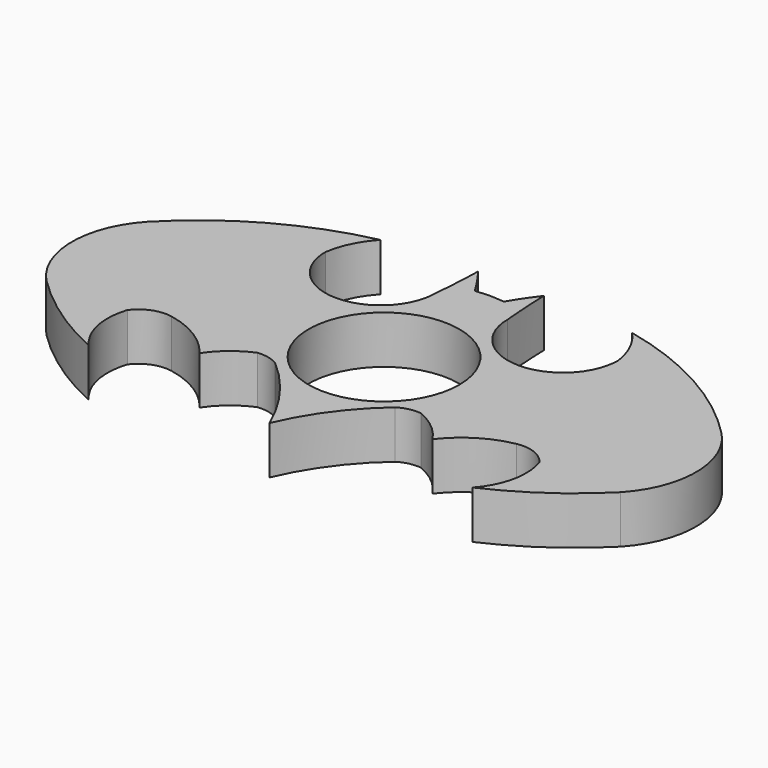
from build123d import *

# Parameters (mm, degrees)
F0_R     = 11
F1_DEPTH = 3.5


with BuildPart() as f1:
    # F0 (on Top) → F1 (new body, symmetric)
    with BuildSketch(Plane.XY):
        with BuildLine():
            ThreePointArc((4.8068902284, 23.1867481814), (3.40065434, 21.2355802686), (2.1143376362, 19.2033536732))
            ThreePointArc((2.1143376362, 19.2033536732), (1.0584202785, 19.2909091426), (0, 19.3396322429))
            ThreePointArc((0, 19.3396322429), (-1.0584202785, 19.2909091426), (-2.1143376362, 19.2033536732))
            ThreePointArc((-2.1143376362, 19.2033536732), (-3.40065434, 21.2355802686), (-4.8068902284, 23.1867481814))
            ThreePointArc((-4.8068902284, 23.1867481814), (-4.9615717482, 19.612078626), (-5.2325893193, 16.0443428904))
            ThreePointArc((-5.2325893193, 16.0443428904), (-13.3206225283, 7.9563096814), (-21.4086557373, 16.0443428904))
            ThreePointArc((-21.4086557373, 16.0443428904), (-20.3787118799, 19.4130691175), (-18.3847115054, 22.3170428173))
            ThreePointArc((-18.3847115054, 22.3170428173), (-31.1223848305, 17.5096597623), (-41.9289059937, 9.2284549028))
            ThreePointArc((-41.9289059937, 9.2284549028), (-45.5657635204, 0), (-41.9289059937, -9.2284549028))
            ThreePointArc((-41.9289059937, -9.2284549028), (-35.4148236465, -14.666894454), (-28.0357005491, -18.857173191))
            ThreePointArc((-28.0357005491, -18.857173191), (-30.3567973633, -14.31904571), (-30.0960739695, -9.2284549028))
            ThreePointArc((-30.0960739695, -9.2284549028), (-27.9226796708, -7.5682851491), (-25.1994561404, -7.3155798018))
            ThreePointArc((-25.1994561404, -7.3155798018), (-20.6333159795, -9.1010108427), (-17.0062072575, -12.399720028))
            ThreePointArc((-17.0062072575, -12.399720028), (-14.7799976822, -9.9240492174), (-11.9304154068, -8.2021793351))
            ThreePointArc((-11.9304154068, -8.2021793351), (-10.290534836, -8.2969879927), (-8.7665580213, -8.9099248871))
            ThreePointArc((-8.7665580213, -8.9099248871), (-3.6958082863, -14.3954527894), (0, -20.8873338997))
            ThreePointArc((0, -20.8873338997), (3.6958082863, -14.3954527894), (8.7665580213, -8.9099248871))
            ThreePointArc((8.7665580213, -8.9099248871), (10.290534836, -8.2969879927), (11.9304154068, -8.2021793351))
            ThreePointArc((11.9304154068, -8.2021793351), (14.7799976822, -9.9240492174), (17.0062072575, -12.399720028))
            ThreePointArc((17.0062072575, -12.399720028), (20.6333159795, -9.1010108427), (25.1994561404, -7.3155798018))
            ThreePointArc((25.1994561404, -7.3155798018), (27.9226796708, -7.5682851491), (30.0960739695, -9.2284549028))
            ThreePointArc((30.0960739695, -9.2284549028), (30.3567973633, -14.31904571), (28.0357005491, -18.857173191))
            ThreePointArc((28.0357005491, -18.857173191), (35.4148236465, -14.666894454), (41.9289059937, -9.2284549028))
            ThreePointArc((41.9289059937, -9.2284549028), (45.5657635204, 0), (41.9289059937, 9.2284549028))
            ThreePointArc((41.9289059937, 9.2284549028), (31.1223848305, 17.5096597623), (18.3847115054, 22.3170428173))
            ThreePointArc((18.3847115054, 22.3170428173), (20.3787118799, 19.4130691175), (21.4086557373, 16.0443428904))
            ThreePointArc((21.4086557373, 16.0443428904), (13.3206225283, 7.9563096814), (5.2325893193, 16.0443428904))
            ThreePointArc((5.2325893193, 16.0443428904), (4.9615717482, 19.612078626), (4.8068902284, 23.1867481814))
        make_face()
        Circle(F0_R, mode=Mode.SUBTRACT)
    extrude(amount=F1_DEPTH, both=True)


solid = f1.part
